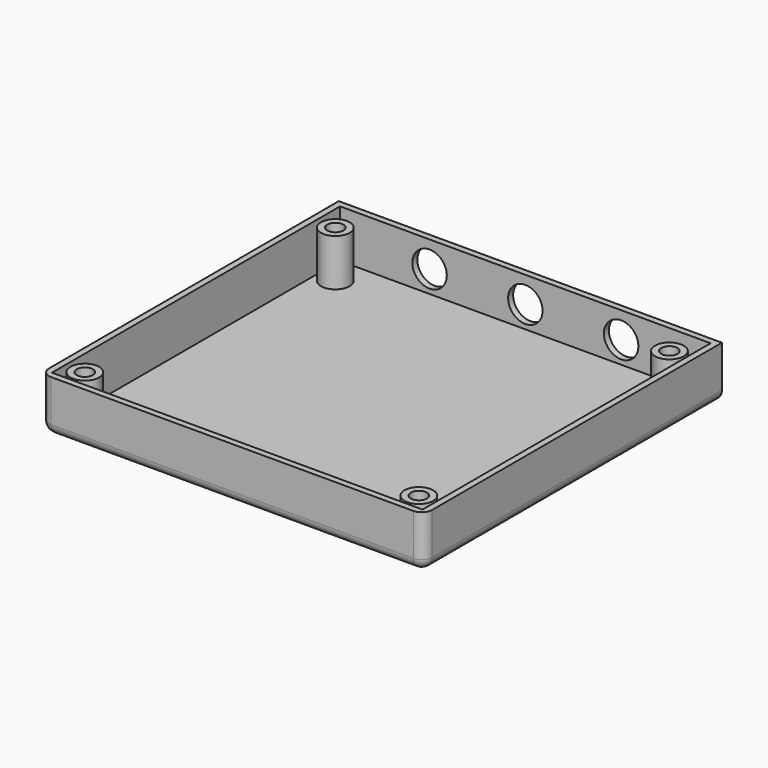
from build123d import *

# Parameters (mm, degrees)
SKETCH074_W     = 73.4
SKETCH074_H     = 71.4
PAD024_DEPTH    = 10
SKETCH075_W     = 71
SKETCH075_H     = 69
POCKET045_DEPTH = 9.2
SKETCH076_R     = 3.3
POCKET046_DEPTH = 1.2
SKETCH077_R     = 2.75
PAD025_DEPTH    = 9.8
SKETCH078_R     = 1.55
POCKET047_DEPTH = 10
SKETCH079_R     = 2.2
POCKET048_DEPTH = 2.8
FILLET001_R     = 2
FILLET002_R     = 2
FILLET003_R     = 2


with BuildPart() as part:
    # Sketch074 (on XY_Plane416 of Origin554) → Pad024 (new body)
    with BuildSketch(Plane.XY):
        with Locations((0, 26.5)):
            Rectangle(SKETCH074_W, SKETCH074_H)
    extrude(amount=-PAD024_DEPTH)

    # Sketch075 (on XY_Plane416 of Origin554) → Pocket045 (cut)
    with BuildSketch(Plane.XY):
        with Locations((0, 26.5)):
            Rectangle(SKETCH075_W, SKETCH075_H)
    extrude(amount=-POCKET045_DEPTH, mode=Mode.SUBTRACT)

    # Sketch076 (on XZ_Plane416 of Origin554) → Pocket046 (cut)
    with BuildSketch(Plane.XZ.offset(-62.2)):
        with Locations((18.35, -5)):
            Circle(SKETCH076_R)
        with Locations((0, -5)):
            Circle(SKETCH076_R)
        with Locations((-18.35, -5)):
            Circle(SKETCH076_R)
    extrude(amount=POCKET046_DEPTH, mode=Mode.SUBTRACT)

    # Sketch077 (on XY_Plane416 of Origin554) → Pad025 (join)
    with BuildSketch(Plane.XY.offset(-0.2)):
        with Locations((-32, 55.5)):
            Circle(SKETCH077_R)
        with Locations((32, 55.5)):
            Circle(SKETCH077_R)
        with Locations((32, -4.5)):
            Circle(SKETCH077_R)
        with Locations((-32, -4.5)):
            Circle(SKETCH077_R)
    extrude(amount=-PAD025_DEPTH)

    # Sketch078 (on XY_Plane416 of Origin554) → Pocket047 (cut)
    with BuildSketch(Plane.XY):
        with Locations((32, 55.5)):
            Circle(SKETCH078_R)
        with Locations((-32, 55.5)):
            Circle(SKETCH078_R)
        with Locations((-32, -4.5)):
            Circle(SKETCH078_R)
        with Locations((32, -4.5)):
            Circle(SKETCH078_R)
    extrude(amount=-POCKET047_DEPTH, mode=Mode.SUBTRACT)

    # Sketch079 (on XY_Plane416 of Origin554) → Pocket048 (cut)
    with BuildSketch(Plane.XY.offset(-7.2)):
        with Locations((-32, 55.5)):
            Circle(SKETCH079_R)
        with Locations((32, 55.5)):
            Circle(SKETCH079_R)
        with Locations((32, -4.5)):
            Circle(SKETCH079_R)
        with Locations((-32, -4.5)):
            Circle(SKETCH079_R)
    extrude(amount=-POCKET048_DEPTH, mode=Mode.SUBTRACT)

    # Fillet001
    fillet001_edges = [part.edges().sort_by_distance(p)[0] for p in [
        (0, -9.2, -10),
    ]]
    fillet(fillet001_edges, radius=FILLET001_R)

    # Fillet002
    fillet002_edges = [part.edges().sort_by_distance(p)[0] for p in [
        (36.7, 27.5, -10),
    ]]
    fillet(fillet002_edges, radius=FILLET002_R)

    # Fillet003
    fillet003_edges = [part.edges().sort_by_distance(p)[0] for p in [
        (-36.7, 27.5, -10),
    ]]
    fillet(fillet003_edges, radius=FILLET003_R)


with BuildPart() as part_1:
    # Body005 placement: moved
    add(part.part.moved(Location((0, 0, -13.7))))


solid = part_1.part
